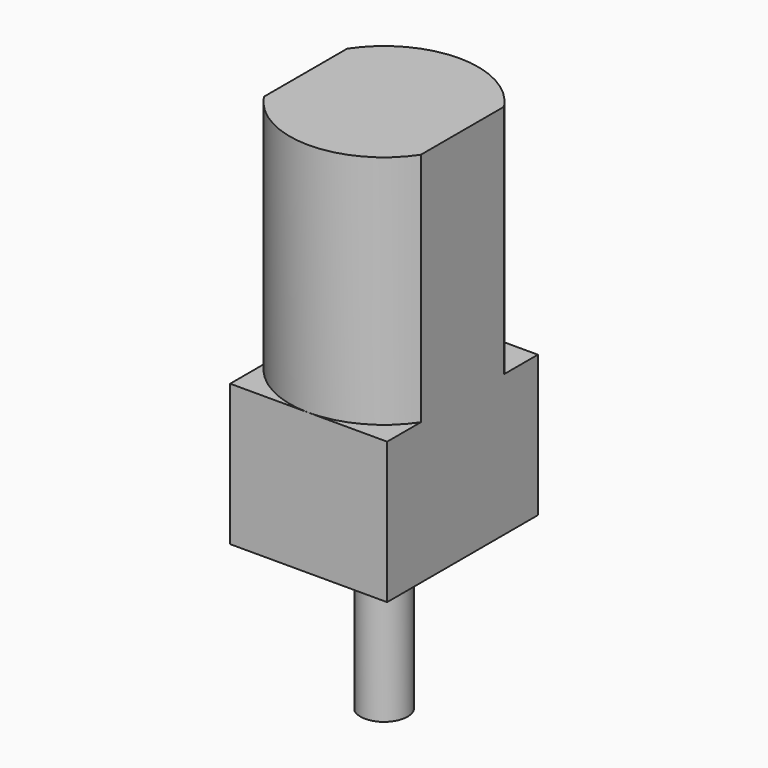
from build123d import *

# Parameters (mm, degrees)
CYLINDER076_R                            = 2
CYLINDER076_DEPTH                        = 1
BOX406008005_W                           = 16
BOX406008005_H                           = 10
BOX406008005_DEPTH                       = 27
CYLINDER077_R                            = 6
CYLINDER077_DEPTH                        = 15
BOX406008006_W                           = 10
BOX406008006_H                           = 10
BOX406008006_DEPTH                       = 12
CYLINDER078_R                            = 1.5
CYLINDER078_DEPTH                        = 10
BOX406008004_W                           = 12
BOX406008004_H                           = 10
BOX406008004_DEPTH                       = 9
FUSION103077013004017004_PLACEMENT_ANGLE = 90


with BuildPart() as boss002:
    # Cylinder076 → Cylinder076 (new body)
    with BuildSketch(Plane.XY.offset(-1)):
        Circle(CYLINDER076_R)
    extrude(amount=CYLINDER076_DEPTH)


with BuildPart() as gearbox005:
    # Box406008005 → Box406008005 (new body)
    with BuildSketch(Plane(origin=(-8, -5, 0), x_dir=(1, 0, 0), z_dir=(0, 0, 1))):
        with Locations((8, 5)):
            Rectangle(BOX406008005_W, BOX406008005_H)
    extrude(amount=BOX406008005_DEPTH)


with BuildPart() as motor002:
    # Cylinder077 → Cylinder077 (new body)
    with BuildSketch(Plane.XY.offset(9)):
        Circle(CYLINDER077_R)
    extrude(amount=CYLINDER077_DEPTH)

    # Common001: intersect gearbox005
    add(gearbox005.part, mode=Mode.INTERSECT)


with BuildPart() as cube341:
    # Box406008006 → Box406008006 (new body)
    with BuildSketch(Plane(origin=(-5, 1, -11), x_dir=(1, 0, 0), z_dir=(0, 0, 1))):
        with Locations((5, 5)):
            Rectangle(BOX406008006_W, BOX406008006_H)
    extrude(amount=BOX406008006_DEPTH)


with BuildPart() as shaft002:
    # Cylinder078 → Cylinder078 (new body)
    with BuildSketch(Plane.XY.offset(-10)):
        Circle(CYLINDER078_R)
    extrude(amount=CYLINDER078_DEPTH)

    # Cut001: cut Cube341
    add(cube341.part, mode=Mode.SUBTRACT)


with BuildPart() as motor_assembled:
    # Box406008004 → Box406008004 (new body)
    with BuildSketch(Plane(origin=(-6, -5, 0), x_dir=(1, 0, 0), z_dir=(0, 0, 1))):
        with Locations((6, 5)):
            Rectangle(BOX406008004_W, BOX406008004_H)
    extrude(amount=BOX406008004_DEPTH)

    # Fusion103077013004017004: union boss002, motor002, shaft002
    add(boss002.part)
    add(motor002.part)
    add(shaft002.part)


with BuildPart() as motor_assembled_1:
    # Fusion103077013004017004 placement: moved
    add(motor_assembled.part.moved(Location((0, 0, 20.5))).rotate(Axis((0, 0, 20.5), (0, 0, 1)), FUSION103077013004017004_PLACEMENT_ANGLE))


solid = motor_assembled_1.part
